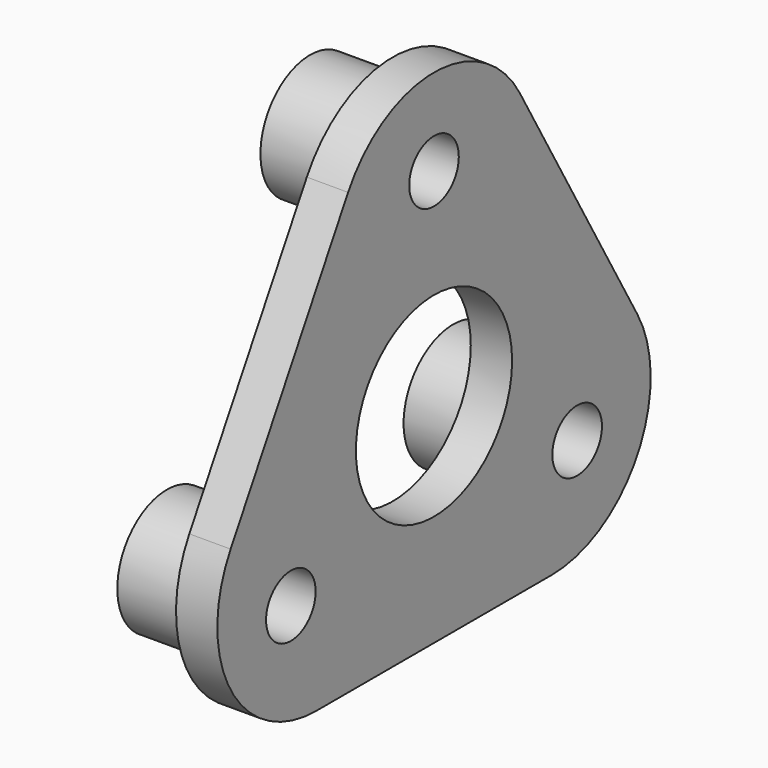
from build123d import *

# Parameters (mm, degrees)
SKETCH_R      = 4.725
SKETCH_R_2    = 1.5
PAD_DEPTH     = 2
SKETCH001_R   = 3
SKETCH001_R_2 = 1.5
PAD001_DEPTH  = 4
FILLET_R      = 6


with BuildPart() as part:
    # Sketch → Pad (new body)
    with BuildSketch(Plane.YZ):
        Polygon((0, 20.207259), (-17.5, -10.10363), (17.5, -10.10363), align=None)
        Circle(SKETCH_R, mode=Mode.SUBTRACT)
        with Locations((0, 10)):
            Circle(SKETCH_R_2, mode=Mode.SUBTRACT)
        with Locations((-8.660254, -5)):
            Circle(SKETCH_R_2, mode=Mode.SUBTRACT)
        with Locations((8.660254, -5)):
            Circle(SKETCH_R_2, mode=Mode.SUBTRACT)
    extrude(amount=-PAD_DEPTH)

    # Sketch001 (on Face9 of Pad) → Pad001 (join)
    with BuildSketch(Plane(origin=(-2, 0, 0), x_dir=(0, 1, 0), z_dir=(-1, 0, 0))):
        with Locations((8.660254, 5)):
            Circle(SKETCH001_R)
        with Locations((8.660254, 5)):
            Circle(SKETCH001_R_2, mode=Mode.SUBTRACT)
        with Locations((-8.660254, 5)):
            Circle(SKETCH001_R)
        with Locations((-8.660254, 5)):
            Circle(SKETCH001_R_2, mode=Mode.SUBTRACT)
        with Locations((0, -10)):
            Circle(SKETCH001_R)
        with Locations((0, -10)):
            Circle(SKETCH001_R_2, mode=Mode.SUBTRACT)
    extrude(amount=PAD001_DEPTH)

    # Fillet
    fillet_edges = [part.edges().sort_by_distance(p)[0] for p in [
        (-1, 0, 20.207259),
        (-1, -17.5, -10.10363),
        (-1, 17.5, -10.10363),
    ]]
    fillet(fillet_edges, radius=FILLET_R)


solid = part.part
